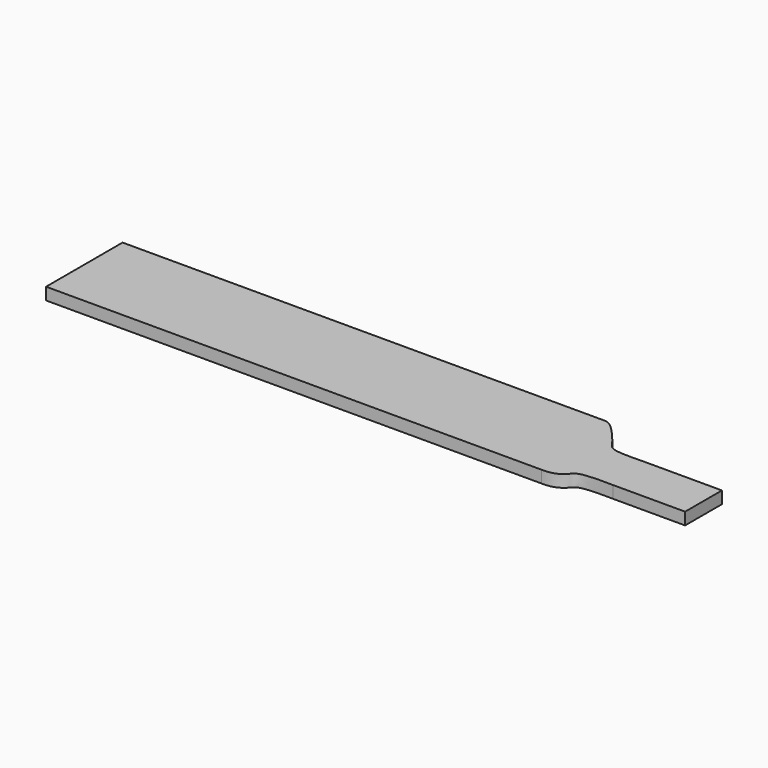
from build123d import *

# Parameters (mm, degrees)
F1_DEPTH = 1.2


with BuildPart() as f1:
    # F0 (on Top) → F1 (new body)
    with BuildSketch(Plane.XY):
        with BuildLine():
            Line((-31.6033400595, 0), (-18.3987915516, 0))
            Line((-18.3987915516, 0), (17.361568287, 0))
            add(Edge.make_bspline(
                [(17.361568287, 0), (17.6653276456, -0.0151373092), (18.5618703821, 0.0351687115), (19.4891966539, 0.7192725546), (19.8618906847, 1.5062680295), (22.6219379208, 1.4758684176), (23.2729754299, 1.4467175351)],
                knots=[0, 0, 0, 0, 0.223860151, 0.4395498979, 0.6269841693, 1, 1, 1, 1], degree=3))
            Line((23.2729754299, 1.4467175351), (30.3966599405, 1.4467175351))
            Line((30.3966599405, 1.4467175351), (30.3966599405, 5.9939725325))
            Line((30.3966599405, 5.9939725325), (22.6935977936, 5.9939725325))
            add(Edge.make_bspline(
                [(15.9988217056, 9.45), (16.4529830217, 9.4699785113), (17.3664699522, 8.7071065894), (18.9562119726, 6.8036674365), (19.5039672266, 5.8425249718), (22.1805847091, 5.9939725325), (22.6935977936, 5.9939725325)],
                knots=[0, 0, 0, 0, 0.2210198142, 0.5029222248, 0.6921587786, 1, 1, 1, 1], degree=3))
            Line((15.9988217056, 9.45), (-31.6033400595, 9.45))
            Line((-31.6033400595, 9.45), (-31.6033400595, 0))
        make_face()
    extrude(amount=F1_DEPTH)


solid = f1.part
